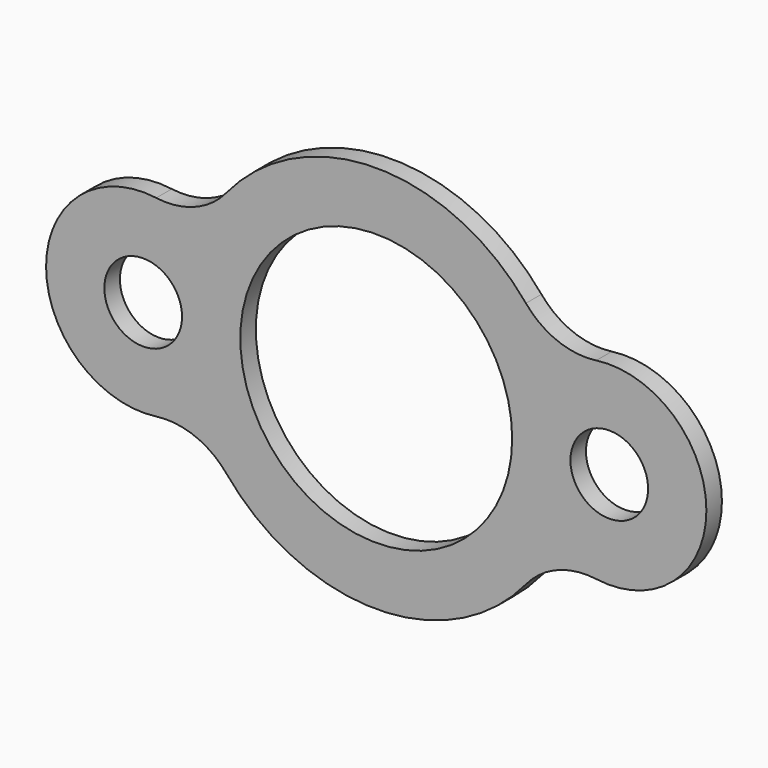
from build123d import *

# Parameters (mm, degrees)
F0_R     = 12.7
F1_DEPTH = 6.35


with BuildPart() as f1:
    # F0 (on Front) → F1 (new body)
    with BuildSketch(Plane.XZ):
        with BuildLine():
            ThreePointArc((-71.937269, -31.462543), (-59.277172, -32.97673), (-48.947917, -40.451841))
            ThreePointArc((-48.947917, -40.451841), (0, -63.5), (48.947917, -40.451841))
            ThreePointArc((48.947917, -40.451841), (59.277172, -32.97673), (71.937269, -31.462543))
            ThreePointArc((71.937269, -31.462543), (107.95, 0), (71.937269, 31.462543))
            ThreePointArc((71.937269, 31.462543), (59.277172, 32.97673), (48.947917, 40.451841))
            ThreePointArc((48.947917, 40.451841), (0, 63.5), (-48.947917, 40.451841))
            ThreePointArc((-48.947917, 40.451841), (-59.277172, 32.97673), (-71.937269, 31.462543))
            ThreePointArc((-71.937269, 31.462543), (-107.95, 0), (-71.937269, -31.462543))
        make_face()
        with Locations((-76.2, 0)):
            Circle(F0_R, mode=Mode.SUBTRACT)
        with BuildLine():
            ThreePointArc((-44.45, 0), (0, 44.45), (44.45, 0))
            ThreePointArc((44.45, 0), (0, -44.45), (-44.45, 0))
        make_face(mode=Mode.SUBTRACT)
        with BuildLine():
            ThreePointArc((88.9, 0), (76.2, -12.7), (63.5, 0))
            ThreePointArc((63.5, 0), (76.2, 12.7), (88.9, 0))
        make_face(mode=Mode.SUBTRACT)
    extrude(amount=F1_DEPTH)


solid = f1.part
